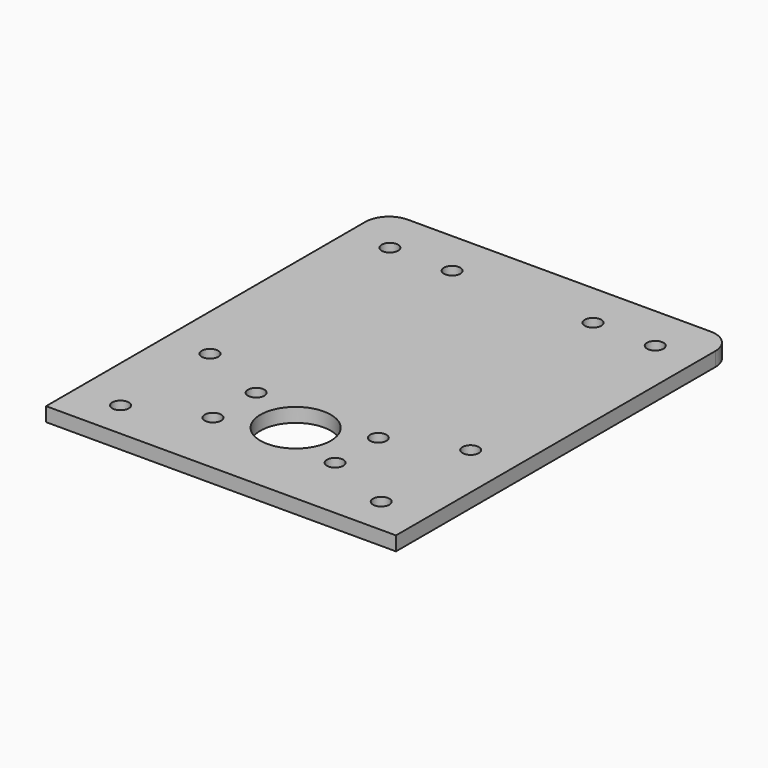
from build123d import *

# Parameters (mm, degrees)
F0_R     = 1.75
F0_R_2   = 7.5
F1_DEPTH = 3


with BuildPart() as f1:
    # F0 (on Top) → F1 (new body)
    with BuildSketch(Plane.XY):
        with BuildLine():
            Line((-37.25, -45), (37.25, -45))
            Line((37.25, -45), (37.25, 40))
            ThreePointArc((37.25, 40), (35.785534, 43.535534), (32.25, 45))
            Line((32.25, 45), (-32.25, 45))
            ThreePointArc((-32.25, 45), (-35.785534, 43.535534), (-37.25, 40))
            Line((-37.25, 40), (-37.25, -45))
        make_face()
        with Locations((-27.75, -37.05)):
            Circle(F0_R, mode=Mode.SUBTRACT)
        with Locations((-13, -30.9)):
            Circle(F0_R, mode=Mode.SUBTRACT)
        with Locations((-27.75, -13.25)):
            Circle(F0_R, mode=Mode.SUBTRACT)
        with Locations((-13, -19.4)):
            Circle(F0_R, mode=Mode.SUBTRACT)
        with Locations((0, -25.15)):
            Circle(F0_R_2, mode=Mode.SUBTRACT)
        with Locations((13, -30.9)):
            Circle(F0_R, mode=Mode.SUBTRACT)
        with Locations((27.75, -37.05)):
            Circle(F0_R, mode=Mode.SUBTRACT)
        with Locations((13, -19.4)):
            Circle(F0_R, mode=Mode.SUBTRACT)
        with Locations((27.75, -13.25)):
            Circle(F0_R, mode=Mode.SUBTRACT)
        with Locations((-28.25, 35.25)):
            Circle(F0_R, mode=Mode.SUBTRACT)
        with Locations((-15, 35.25)):
            Circle(F0_R, mode=Mode.SUBTRACT)
        with Locations((15, 35.25)):
            Circle(F0_R, mode=Mode.SUBTRACT)
        with Locations((28.25, 35.25)):
            Circle(F0_R, mode=Mode.SUBTRACT)
    extrude(amount=F1_DEPTH)


solid = f1.part
